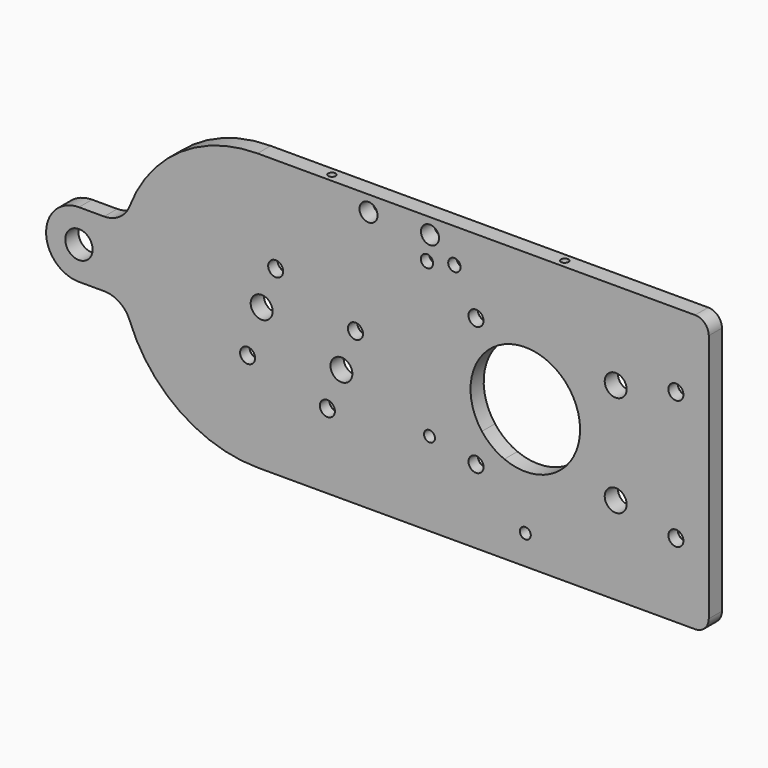
from build123d import *

# Parameters (mm, degrees)
F0_R           = 5
F0_R_2         = 6.0157611954
F0_R_3         = 5.450221674
F0_R_4         = 4
F0_R_5         = 2
F0_R_6         = 3.4791274017
F0_R_7         = 5.4671936668
F0_R_8         = 4.2465190739
F0_R_9         = 3.1434156929
F0_R_10        = 6.9718270278
F0_R_11        = 3.5055270759
F1_DEPTH       = 6
F2_D           = 5.5
F2_CSINK_D     = 8.96
F2_CSINK_ANGLE = 90
F3_D           = 4.5
F3_CSINK_D     = 8.96
F3_CSINK_ANGLE = 90
F4_D           = 6.6
F6_D           = 2.7
F6_DEPTH       = 12
F6_TIP         = 0.8111618357
F8_D           = 2.7
F8_DEPTH       = 12
F8_TIP         = 0.8111618357
F9_R           = 5


with BuildPart() as f1:
    # F0 (on Front) → F1 (new body)
    with BuildSketch(Plane.XZ):
        with BuildLine():
            ThreePointArc((-96.4640628632, -18.4166666667), (-78.1054529592, -41.7057843836), (-49.7843771792, -50.5))
            Line((-49.7843771792, -50.5), (115, -50.5))
            Line((115, -50.5), (115, 50.5))
            Line((115, 50.5), (-49.7843771792, 50.5))
            ThreePointArc((-49.7843771792, 50.5), (-78.1054529592, 41.7057843836), (-96.4640628632, 18.4166666667))
            ThreePointArc((-96.4640628632, 18.4166666667), (-100.135784844, 13.7588431233), (-105.8, 12))
            Line((-105.8, 12), (-115, 12))
            ThreePointArc((-115, 12), (-127, 0), (-115, -12))
            Line((-115, -12), (-105.8, -12))
            ThreePointArc((-105.8, -12), (-100.135784844, -13.7588431233), (-96.4640628632, -18.4166666667))
        make_face()
        with Locations((-115, 0)):
            Circle(F0_R, mode=Mode.SUBTRACT)
        with Locations((-53.41, -15.6)):
            Circle(F0_R_2, mode=Mode.SUBTRACT)
        with Locations((-24.28, -23.2)):
            Circle(F0_R_3, mode=Mode.SUBTRACT)
        with Locations((-19.15, -9.1)):
            Circle(F0_R_4, mode=Mode.SUBTRACT)
        with Locations((48, -39.8021750152)):
            Circle(F0_R_5, mode=Mode.SUBTRACT)
        with Locations((13, -20)):
            Circle(F0_R_5, mode=Mode.SUBTRACT)
        with BuildLine():
            ThreePointArc((32.1548065788, -12.2036816348), (41.5542210876, 18.9328268944), (68, 0))
            ThreePointArc((68, 0), (59.1108283975, -16.6297772782), (40.3450507679, -18.4770601626))
            ThreePointArc((40.3450507679, -18.4770601626), (41.2075439734, -20.9229943569), (41.5, -23.5))
            ThreePointArc((41.5, -23.5), (21.1391231908, -30.8304066853), (32.1548065788, -12.2036816348))
        make_face(mode=Mode.SUBTRACT)
        with Locations((81, -18.5)):
            Circle(F0_R_4, mode=Mode.SUBTRACT)
        with Locations((103, -23.5)):
            Circle(F0_R_6, mode=Mode.SUBTRACT)
        with Locations((-48.28, 1.52)):
            Circle(F0_R_4, mode=Mode.SUBTRACT)
        with Locations((-14.02, 5)):
            Circle(F0_R_7, mode=Mode.SUBTRACT)
        with Locations((-43.15, 15.6)):
            Circle(F0_R_8, mode=Mode.SUBTRACT)
        with Locations((-9.25, 44.8)):
            Circle(F0_R_9, mode=Mode.SUBTRACT)
        with Locations((30, 23.5)):
            Circle(F0_R_10, mode=Mode.SUBTRACT)
        with Locations((81, 18.5)):
            Circle(F0_R_4, mode=Mode.SUBTRACT)
        with Locations((103, 23.5)):
            Circle(F0_R_11, mode=Mode.SUBTRACT)
        with BuildLine():
            ThreePointArc((17.1984440191, 41.7107700429), (24.0572213428, 43.8278941274), (28.2477691357, 38))
            ThreePointArc((28.2477691357, 38), (25.1621574991, 32.669122324), (19.0027060342, 32.6894599677))
            ThreePointArc((19.0027060342, 32.6894599677), (5.9710481835, 31.4127376868), (10.8695627244, 43.5559943098))
            ThreePointArc((10.8695627244, 43.5559943098), (12.5588245291, 47.3626903964), (15.8416828069, 44.8))
            ThreePointArc((15.8416828069, 44.8), (15.6633729559, 43.845913142), (15.152514728, 43.0206253094))
            ThreePointArc((15.152514728, 43.0206253094), (16.2277672329, 42.4473687323), (17.1984440191, 41.7107700429))
        make_face(mode=Mode.SUBTRACT)
        with Locations((-43.15, 15.6)):
            Circle(F0_R_8)
        with Locations((-53.41, -15.6)):
            Circle(F0_R_2)
        with Locations((-14.02, 5)):
            Circle(F0_R_7)
        with Locations((-24.28, -23.2)):
            Circle(F0_R_3)
        with BuildLine():
            ThreePointArc((19.0027060342, 32.6894599677), (16.071616387, 36.7943232774), (17.1984440191, 41.7107700429))
            ThreePointArc((17.1984440191, 41.7107700429), (16.2277672329, 42.4473687323), (15.152514728, 43.0206253094))
            ThreePointArc((15.152514728, 43.0206253094), (12.8723395742, 42.1787165934), (10.8695627244, 43.5559943098))
            ThreePointArc((10.8695627244, 43.5559943098), (5.9710481835, 31.4127376868), (19.0027060342, 32.6894599677))
        make_face()
        with BuildLine():
            ThreePointArc((19.0027060342, 32.6894599677), (25.1621574991, 32.669122324), (28.2477691357, 38))
            ThreePointArc((28.2477691357, 38), (24.0572213428, 43.8278941274), (17.1984440191, 41.7107700429))
            ThreePointArc((17.1984440191, 41.7107700429), (19.0870694567, 39.1285597815), (19.7555225752, 36))
            ThreePointArc((19.7555225752, 36), (19.5649463419, 34.3024717933), (19.0027060342, 32.6894599677))
        make_face()
        with Locations((30, 23.5)):
            Circle(F0_R_10)
        with BuildLine():
            ThreePointArc((40.3450507679, -18.4770601626), (35.8384624442, -15.87756292), (32.1548065788, -12.2036816348))
            ThreePointArc((32.1548065788, -12.2036816348), (21.1391231908, -30.8304066853), (41.5, -23.5))
            ThreePointArc((41.5, -23.5), (41.2075439734, -20.9229943569), (40.3450507679, -18.4770601626))
        make_face()
        with Locations((103, 23.5)):
            Circle(F0_R_11)
        with Locations((103, -23.5)):
            Circle(F0_R_6)
        with BuildLine():
            ThreePointArc((10.8695627244, 43.5559943098), (13.0495507108, 43.596405686), (15.152514728, 43.0206253094))
            ThreePointArc((15.152514728, 43.0206253094), (15.6633729559, 43.845913142), (15.8416828069, 44.8))
            ThreePointArc((15.8416828069, 44.8), (12.5588245291, 47.3626903964), (10.8695627244, 43.5559943098))
        make_face()
        with BuildLine():
            ThreePointArc((10.8695627244, 43.5559943098), (12.8723395742, 42.1787165934), (15.152514728, 43.0206253094))
            ThreePointArc((15.152514728, 43.0206253094), (13.0495507108, 43.596405686), (10.8695627244, 43.5559943098))
        make_face()
        with Locations((-9.25, 44.8)):
            Circle(F0_R_9)
        with BuildLine():
            ThreePointArc((19.7555225752, 36), (19.0870694567, 39.1285597815), (17.1984440191, 41.7107700429))
            ThreePointArc((17.1984440191, 41.7107700429), (16.071616387, 36.7943232774), (19.0027060342, 32.6894599677))
            ThreePointArc((19.0027060342, 32.6894599677), (19.5649463419, 34.3024717933), (19.7555225752, 36))
        make_face()
    extrude(amount=F1_DEPTH)

    # F2 (through all)
    with Locations(Plane(origin=(0, 0, 0), x_dir=(1, 0, 0), z_dir=(0, 1, 0))):
        with Locations((-43.15, -15.6), (-53.41, 15.6), (-14.02, -5), (-24.28, 23.2), (30, 23.5), (30, -23.5), (103, -23.5), (103, 23.5)):
            CounterSinkHole(F2_D / 2, F2_CSINK_D / 2, counter_sink_angle=F2_CSINK_ANGLE)

    # F3 (through all)
    with Locations(Plane(origin=(0, 0, 0), x_dir=(1, 0, 0), z_dir=(0, 1, 0))):
        with Locations((22.1, -38), (12.1, -36)):
            CounterSinkHole(F3_D / 2, F3_CSINK_D / 2, counter_sink_angle=F3_CSINK_ANGLE)

    # F4 (through all)
    with Locations(Plane(origin=(0, 0, 0), x_dir=(1, 0, 0), z_dir=(0, 1, 0))):
        with Locations((-9.25, -44.8), (13.2, -44.8)):
            Hole(F4_D / 2)

    # F6
    with Locations(Plane(origin=(0, 0, -50.5), x_dir=(1, 0, 0), z_dir=(0, 0, -1))):
        with Locations((60, 3), (-25, 3)):
            Hole(F6_D / 2, depth=F6_DEPTH)
            with Locations((0, 0, -(F6_DEPTH + F6_TIP / 2))):  # 118° drill point
                Cone(0, F6_D / 2, F6_TIP, mode=Mode.SUBTRACT)

    # F8
    with Locations(Plane.XY.offset(50.5)):
        with Locations((-25, -3), (60, -3)):
            Hole(F8_D / 2, depth=F8_DEPTH)
            with Locations((0, 0, -(F8_DEPTH + F8_TIP / 2))):  # 118° drill point
                Cone(0, F8_D / 2, F8_TIP, mode=Mode.SUBTRACT)

    # F9
    f9_edges = [f1.edges().sort_by_distance(p)[0] for p in [
        (115, -3, 50.5),
        (115, -3, -50.5),
    ]]
    fillet(f9_edges, radius=F9_R)


solid = f1.part
